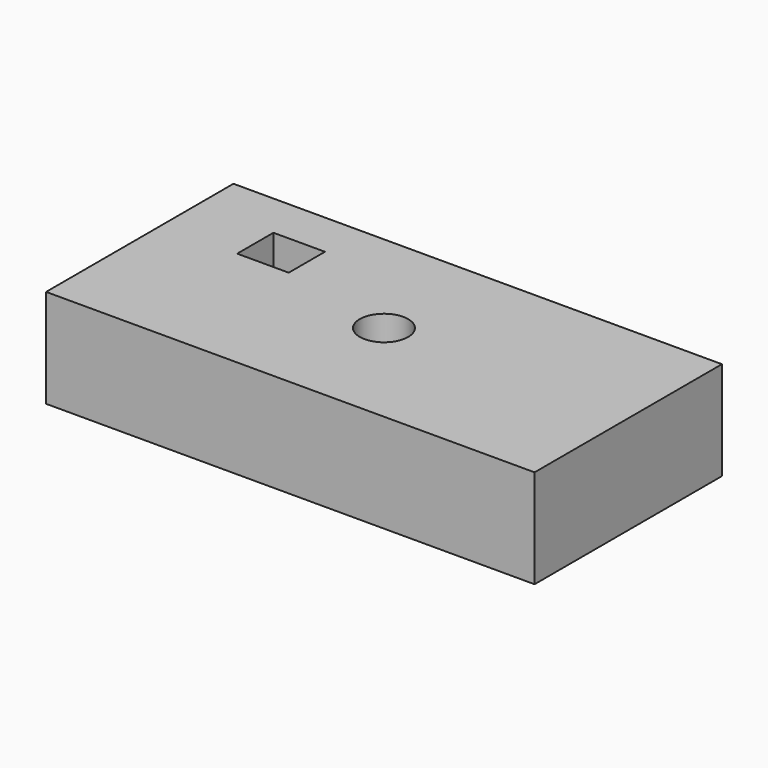
from build123d import *

# Parameters (mm, degrees)
F0_W     = 123.919994
F0_H     = 59.413508
F0_R     = 6.14177
F1_DEPTH = 25


with BuildPart() as f1:
    # F0 (on Top) → F1 (new body)
    with BuildSketch(Plane.XY):
        Rectangle(F0_W, F0_H)
        Polygon((-42.643782, 6.749166), (-42.643782, 18.240707), (-29.568307, 18.240707), (-29.568307, 12.494937), (-29.568307, 6.749166), align=None, mode=Mode.SUBTRACT)
        Circle(F0_R, mode=Mode.SUBTRACT)
    extrude(amount=F1_DEPTH)


solid = f1.part
